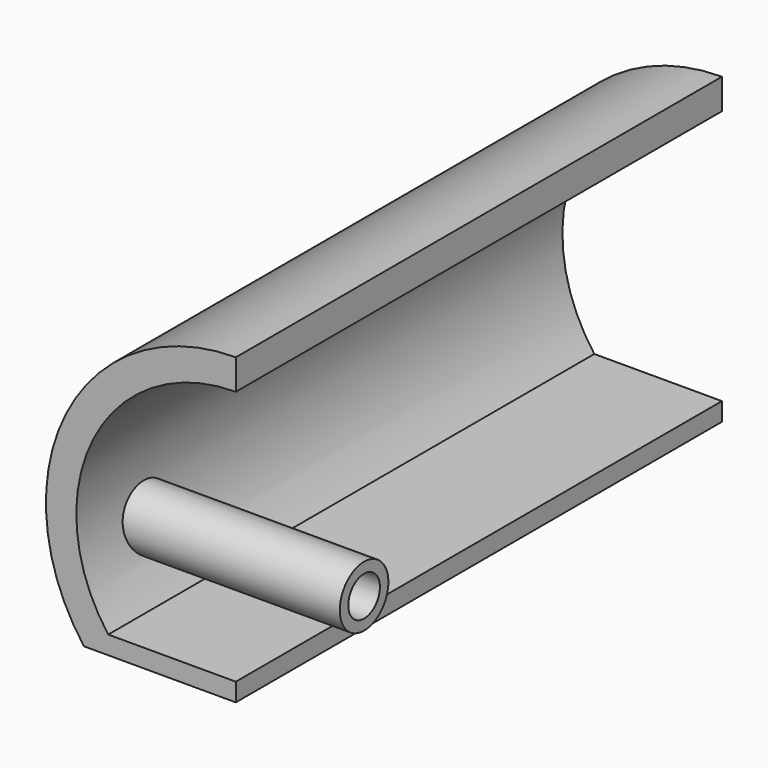
from build123d import *

# Parameters (mm, degrees)
F1_DEPTH    = 25.4
F2_R        = 1.27
F2_R_2      = 0.8255
F3_DEPTH    = 7.112
F3_FACE_R   = 1.27
F3_FACE_R_2 = 0.8255
F4_DEPTH    = 2.54


with BuildPart() as f1:
    # F0 (on Front) → F1 (new body)
    with BuildSketch(Plane.XZ):
        with BuildLine():
            Line((-6.35, 0), (0, 0))
            Line((0, 0), (0, 0.762))
            Line((0, 0.762), (-5.334, 0.762))
            ThreePointArc((-5.334, 0.762), (-5.963593, 7.744297), (0, 11.43))
            Line((0, 11.43), (0, 12.7))
            ThreePointArc((0, 12.7), (-7.099516, 8.312258), (-6.35, 0))
        make_face()
    extrude(amount=F1_DEPTH)

    # F2 (on Right) → F3 (join)
    with BuildSketch(Plane.YZ):
        with Locations((-21.872345, 3.302)):
            Circle(F2_R)
        with Locations((-21.872345, 3.302)):
            Circle(F2_R_2, mode=Mode.SUBTRACT)
    extrude(amount=-F3_DEPTH)

    # F3_face (on face) → F4 (join)
    with BuildSketch(Plane(origin=(0, -21.872345, 3.302), x_dir=(0, 1, 0), z_dir=(1, 0, 0))):
        Circle(F3_FACE_R)
        Circle(F3_FACE_R_2, mode=Mode.SUBTRACT)
    extrude(amount=F4_DEPTH)


solid = f1.part
